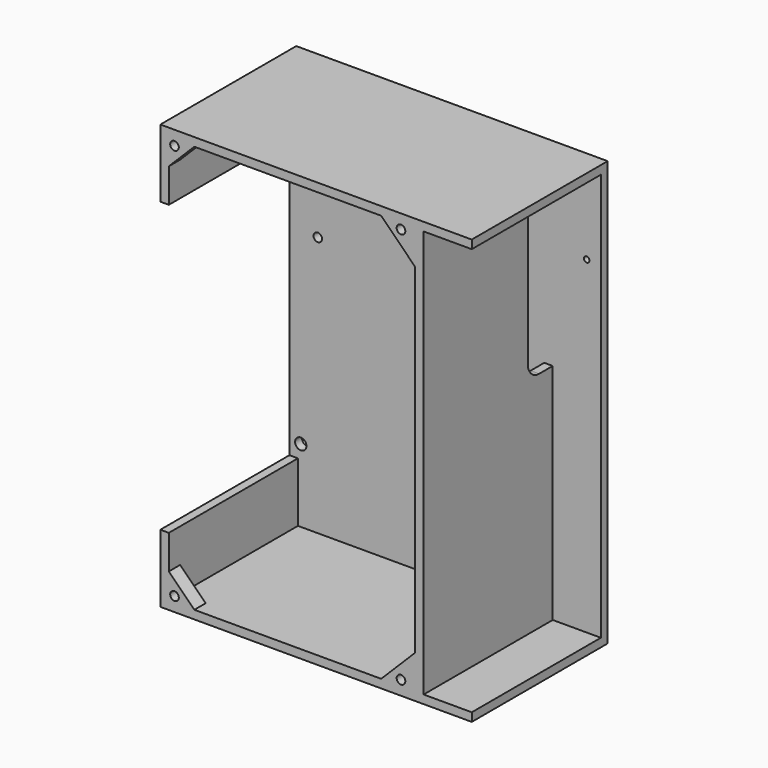
from build123d import *

# Parameters (mm, degrees)
SKETCH029_W     = 110
SKETCH029_H     = 150
SKETCH029_R     = 2
SKETCH029_R_2   = 0.975
SKETCH029_R_3   = 1.5
PAD018_DEPTH    = 3
PAD019_DEPTH    = 57
SKETCH031_R     = 1.525
PAD020_DEPTH    = 5
POCKET007_DEPTH = 3


with BuildPart() as part:
    # Sketch029 → Pad018 (new body)
    with BuildSketch(Plane.XZ):
        with Locations((6.7, 54)):
            Rectangle(SKETCH029_W, SKETCH029_H)
        with Locations((-44.3, 100.2)):
            Circle(SKETCH029_R, mode=Mode.SUBTRACT)
        with Locations((-44.3, 7.8)):
            Circle(SKETCH029_R, mode=Mode.SUBTRACT)
        with Locations((56.7, 98)):
            Circle(SKETCH029_R_2, mode=Mode.SUBTRACT)
        with Locations((46.5, 120)):
            Circle(SKETCH029_R_2, mode=Mode.SUBTRACT)
        with Locations((-38.3, 74)):
            Circle(SKETCH029_R_3, mode=Mode.SUBTRACT)
        with Locations((1.7, 34)):
            Circle(SKETCH029_R_3, mode=Mode.SUBTRACT)
    extrude(amount=PAD018_DEPTH)

    # Sketch030 (on Face12 of Pad018) → Pad019 (join)
    with BuildSketch(Plane.XZ.offset(3)):
        Polygon((61.7, 129), (-48.3, 129), (-48.3, 105), (-45.3, 105), (-45.3, 126), (41.7, 126), (41.7, -18), (-45.3, -18), (-45.3, 3), (-48.3, 3), (-48.3, -21), (61.7, -21), (61.7, -18), (44.7, -18), (44.7, 126), (61.7, 126), align=None)
    extrude(amount=PAD019_DEPTH)

    # Sketch031 (on Face19 of Pad019) → Pad020 (join)
    with BuildSketch(Plane.XZ.offset(60)):
        Polygon((-48.3, -21), (-48.3, -6), (-33.3, -21), align=None)
        with Locations((-43.3, -16)):
            Circle(SKETCH031_R, mode=Mode.SUBTRACT)
        Polygon((-48.3, 129), (-48.3, 114), (-33.3, 129), align=None)
        with Locations((-43.3, 124)):
            Circle(SKETCH031_R, mode=Mode.SUBTRACT)
        Polygon((41.7, -21), (41.7, -6), (26.7, -21), align=None)
        with Locations((36.7, -16)):
            Circle(SKETCH031_R, mode=Mode.SUBTRACT)
        Polygon((41.7, 129), (41.7, 114), (26.7, 129), align=None)
        with Locations((36.7, 124)):
            Circle(SKETCH031_R, mode=Mode.SUBTRACT)
    extrude(amount=-PAD020_DEPTH)

    # Sketch032 (on Face37 of Pad020) → Pocket007 (cut)
    with BuildSketch(Plane(origin=(44.7, 0, 0), x_dir=(0, 0, 1), z_dir=(1, 0, 0))):
        with BuildLine():
            Line((126, 3), (126, 14))
            Line((126, 14), (66, 14))
            ThreePointArc((66, 14), (62.464466, 12.535534), (61, 9))
            Line((61, 9), (61, 3))
            Line((61, 3), (126, 3))
        make_face()
    extrude(amount=-POCKET007_DEPTH, mode=Mode.SUBTRACT)


solid = part.part
